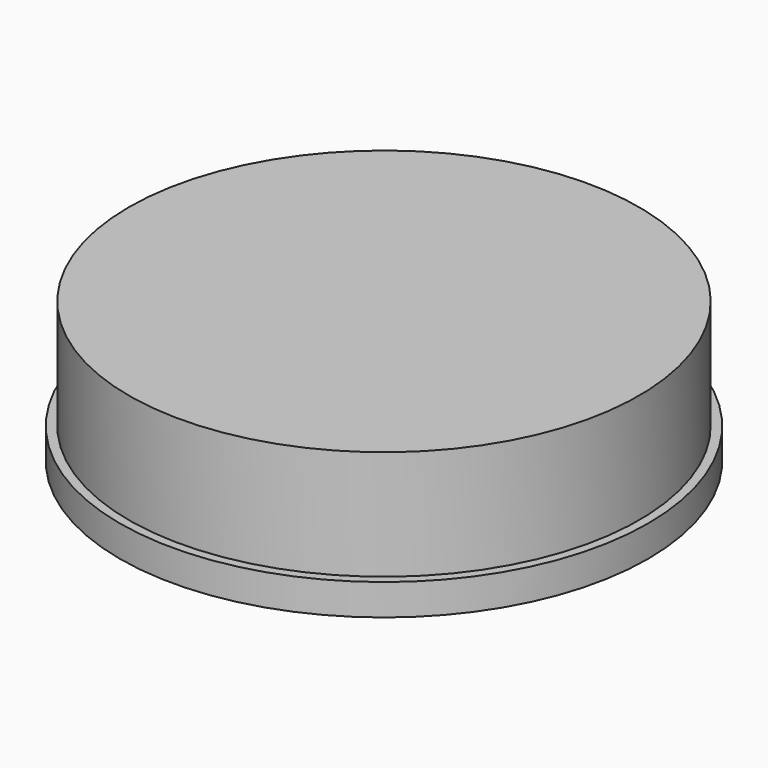
from build123d import *


with BuildPart() as f2:
    # F1 (on face) → F2 (revolve)
    with BuildSketch(Plane.XZ):
        Polygon((10.053351, 4.870803), (-0.77221, 4.870803), (-0.77221, 0.219821), (-1.153109, 0.219821), (-1.153109, -1.103303), (10.053351, -1.103303), align=None)
    revolve(axis=Axis((10.053351, 0, 1.88375), (0, 0, 1)))


solid = f2.part
